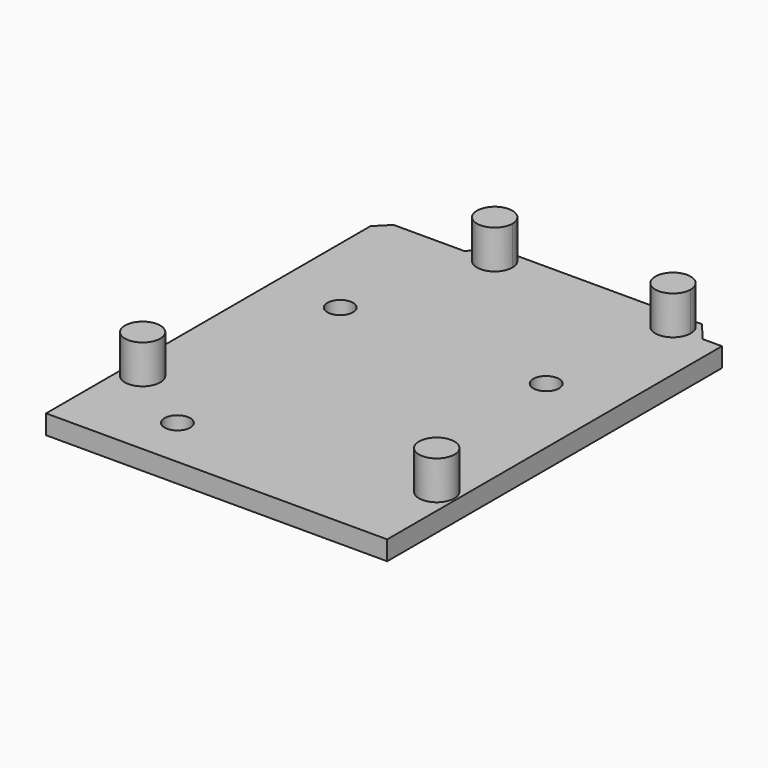
from build123d import *

# Parameters (mm, degrees)
F0_R     = 2.75
F1_DEPTH = 3
F2_DEPTH = 6
F3_R     = 2
F4_DEPTH = 25


with BuildPart() as f1:
    # F0 (on Top) → F1 (new body)
    with BuildSketch(Plane.XY):
        Polygon((0, 63), (0, 0), (53, 0), (53, 65), (50, 65), (47.5, 68), (45.2, 68), (17.5, 68), (15.5, 68), (13, 65), (2, 65), align=None)
        with Locations((3, 15)):
            Circle(F0_R, mode=Mode.SUBTRACT)
        with Locations((49.8936027288, 13.5)):
            Circle(F0_R, mode=Mode.SUBTRACT)
        with BuildLine():
            ThreePointArc((20.25, 65.25), (15.5554563517, 63.3054563517), (17.5, 68))
            ThreePointArc((17.5, 68), (19.4445436483, 67.1945436483), (20.25, 65.25))
        make_face(mode=Mode.SUBTRACT)
        with BuildLine():
            ThreePointArc((47.95, 65.25), (43.2554563517, 63.3054563517), (45.2, 68))
            ThreePointArc((45.2, 68), (47.1445436483, 67.1945436483), (47.95, 65.25))
        make_face(mode=Mode.SUBTRACT)
        with BuildLine():
            ThreePointArc((47.95, 65.25), (47.1445436483, 67.1945436483), (45.2, 68))
            ThreePointArc((45.2, 68), (43.2554563517, 63.3054563517), (47.95, 65.25))
        make_face()
        with BuildLine():
            ThreePointArc((20.25, 65.25), (19.4445436483, 67.1945436483), (17.5, 68))
            ThreePointArc((17.5, 68), (15.5554563517, 63.3054563517), (20.25, 65.25))
        make_face()
        with Locations((3, 15)):
            Circle(F0_R)
        with Locations((49.8936027288, 13.5)):
            Circle(F0_R)
    extrude(amount=-F1_DEPTH)

    # F0 (on Top) → F2 (join)
    with BuildSketch(Plane.XY):
        with BuildLine():
            ThreePointArc((20.25, 65.25), (19.4445436483, 67.1945436483), (17.5, 68))
            ThreePointArc((17.5, 68), (15.5554563517, 63.3054563517), (20.25, 65.25))
        make_face()
        with BuildLine():
            ThreePointArc((47.95, 65.25), (47.1445436483, 67.1945436483), (45.2, 68))
            ThreePointArc((45.2, 68), (43.2554563517, 63.3054563517), (47.95, 65.25))
        make_face()
        with Locations((49.8936027288, 13.5)):
            Circle(F0_R)
        with Locations((3, 15)):
            Circle(F0_R)
    extrude(amount=F2_DEPTH)

    # F3 (on face) → F4 (cut)
    with BuildSketch(Plane(origin=(0, 0, -3), x_dir=(1, 0, 0), z_dir=(0, 0, -1))):
        with Locations((42.5, -44)):
            Circle(F3_R)
        with Locations((10.5, -44)):
            Circle(F3_R)
        with Locations((14, -8)):
            Circle(F3_R)
    extrude(amount=-F4_DEPTH, mode=Mode.SUBTRACT)


solid = f1.part
